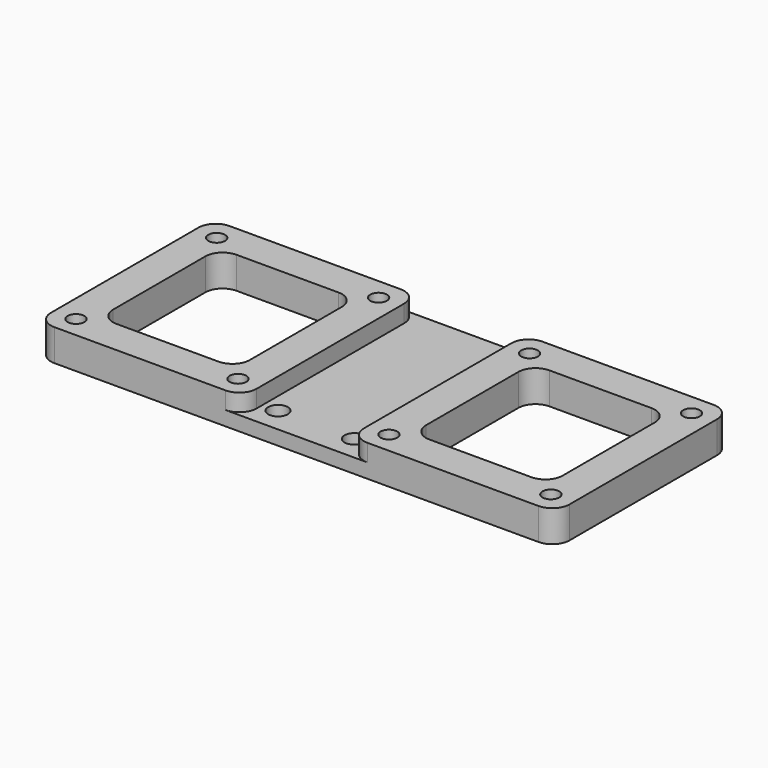
from build123d import *

# Parameters (mm, degrees)
F0_W        = 90
F0_H        = 38
F1_DEPTH    = 2.5
F3_D        = 3.4
F2_W        = 35.7
F2_H        = 38
F4_DEPTH    = 3
F6_W        = 23.7
F6_H        = 26
F5_W        = 23.7
F5_H        = 26
F7_DEPTH    = 10
F10_D       = 2.9
F10_ON_F9_D = 2.9
F11_R       = 3


with BuildPart() as f1:
    # F0 (on Top) → F1 (new body)
    with BuildSketch(Plane.XY):
        Rectangle(F0_W, F0_H)
    extrude(amount=F1_DEPTH)

    # F3 (through all)
    with Locations(Plane.XY.offset(2.5)):
        with Locations((6.625, -14.7051038221), (-6.625, -14.7051038221)):
            Hole(F3_D / 2)

    # F2 (on face) → F4 (join)
    with BuildSketch(Plane.XY.offset(2.5)):
        with Locations((-27.15, 0)):
            Rectangle(F2_W, F2_H)
        with Locations((27.15, 0)):
            Rectangle(F2_W, F2_H)
    extrude(amount=F4_DEPTH)

    # F6 (on face) + F5 (on face) → F7 (cut)
    with BuildSketch(Plane.XY.offset(5.5)):
        with Locations((-27.15, 0)):
            Rectangle(F6_W, F6_H)
    with BuildSketch(Plane.XY.offset(5.5)):
        with Locations((27.15, 0)):
            Rectangle(F5_W, F5_H)
    extrude(amount=-F7_DEPTH, mode=Mode.SUBTRACT)

    # F10 (through all)
    with Locations(Plane.XY.offset(5.5)):
        with Locations((-41.2, 15.2), (-41.2, -15.3), (-13.1, 15.2), (-13.1, -15.3)):
            Hole(F10_D / 2)

    # F10 on F9 (through all)
    with Locations(Plane.XY.offset(5.5)):
        with Locations((13.1, 15.2), (41.2, 15.2), (13.1, -15.3), (41.2, -15.3)):
            Hole(F10_ON_F9_D / 2)

    # F11
    f11_edges = [f1.edges().sort_by_distance(p)[0] for p in [
        (-45, 19, 2.75),
        (9.3, 19, 4),
        (45, 19, 2.75),
        (39, -13, 2.75),
        (-15.3, -13, 2.75),
        (-45, -19, 2.75),
        (-9.3, -19, 4),
        (-39, 13, 2.75),
        (-9.3, 19, 4),
        (15.3, 13, 2.75),
        (45, -19, 2.75),
        (15.3, -13, 2.75),
        (-39, -13, 2.75),
        (-15.3, 13, 2.75),
        (39, 13, 2.75),
        (9.3, -19, 4),
    ]]
    fillet(f11_edges, radius=F11_R)


solid = f1.part
